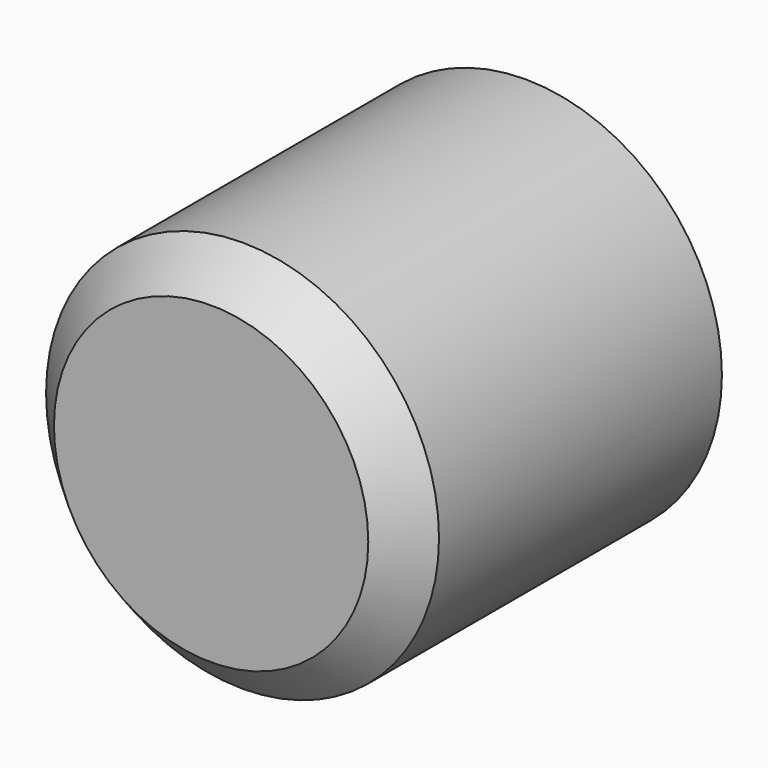
from build123d import *

# Parameters (mm, degrees)
F0_R     = 25.4
F1_DEPTH = 50.8
F2_SIZE  = 5.08


with BuildPart() as f1:
    # F0 (on Front) → F1 (new body)
    with BuildSketch(Plane.XZ):
        with Locations((38.046714, 35.528917)):
            Circle(F0_R)
    extrude(amount=F1_DEPTH)

    # F2
    f2_edges = [f1.edges().sort_by_distance(p)[0] for p in [
        (12.646714, -50.8, 35.528917),
    ]]
    chamfer(f2_edges, length=F2_SIZE)


solid = f1.part
